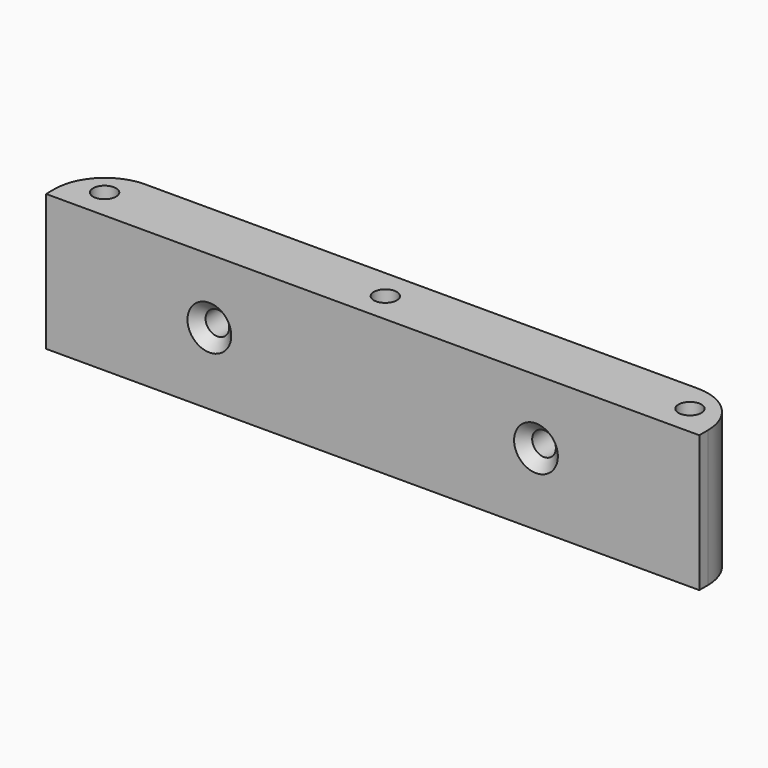
from build123d import *

# Parameters (mm, degrees)
SKETCH_W         = 91
SKETCH_H         = 8.5
PAD_DEPTH        = 19
FILLET_R         = 7
SKETCH052_R      = 1.6
POCKET_DEPTH     = 8
HOLE_D           = 3.3
HOLE_DEPTH       = 25
HOLE_CSINK_D     = 6.1
HOLE_CSINK_ANGLE = 90


with BuildPart() as part:
    # Sketch → Pad (new body)
    with BuildSketch(Plane.XY):
        with Locations((45.5, 4.25)):
            Rectangle(SKETCH_W, SKETCH_H)
    extrude(amount=PAD_DEPTH)

    # Fillet
    fillet_edges = [part.edges().sort_by_distance(p)[0] for p in [
        (91, 8.5, 9.5),
        (0, 8.5, 9.5),
    ]]
    fillet(fillet_edges, radius=FILLET_R)

    # Sketch052 (on Face5 of Fillet) → Pocket (cut)
    with BuildSketch(Plane.XY.offset(19)):
        with Locations((4.749754, 4.25)):
            Circle(SKETCH052_R)
        with Locations((86.299538, 4.25)):
            Circle(SKETCH052_R)
        with Locations((43.855799, 4.26)):
            Circle(SKETCH052_R)
    extrude(amount=-POCKET_DEPTH, mode=Mode.SUBTRACT)

    # Hole
    with Locations(Plane.XZ):
        with Locations((22.75, 10), (68.249998, 10)):
            CounterSinkHole(HOLE_D / 2, HOLE_CSINK_D / 2, depth=HOLE_DEPTH, counter_sink_angle=HOLE_CSINK_ANGLE)


solid = part.part
